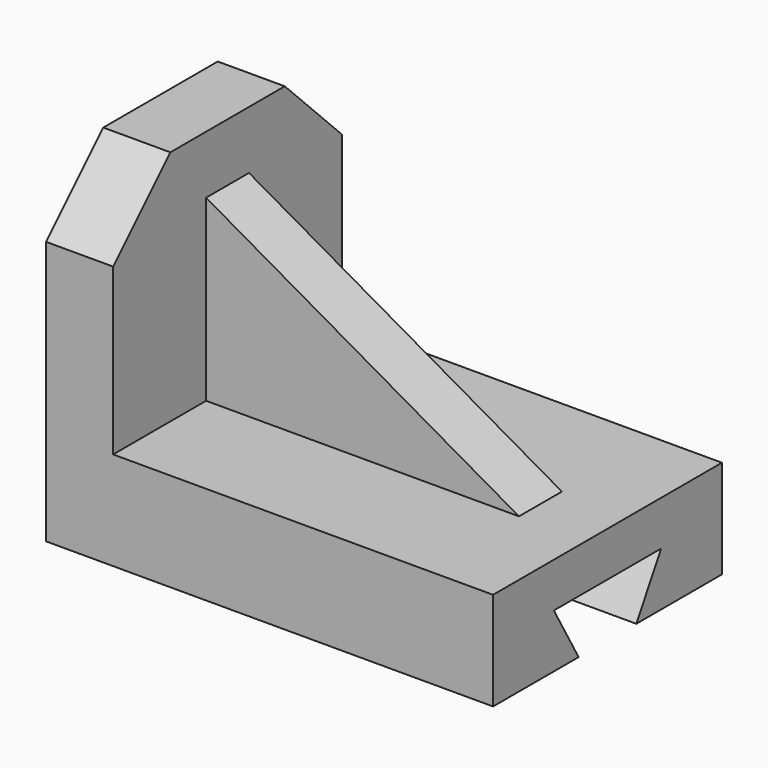
from build123d import *

# Parameters (mm, degrees)
PAD002_DEPTH    = 6
SKETCH_W        = 100
SKETCH_H        = 64
PAD_DEPTH       = 22
SKETCH001_W     = 15
SKETCH001_H     = 64
PAD001_DEPTH    = 53
POCKET_DEPTH    = 100.001
POCKET001_DEPTH = 15.001


with BuildPart() as pad002:
    # Sketch003 → Pad002 (new body, symmetric)
    with BuildSketch(Plane.XZ):
        Polygon((-35, 62), (-35, 22), (35, 22), align=None)
    extrude(amount=PAD002_DEPTH, both=True)


with BuildPart() as pocket001:
    # Sketch → Pad (new body)
    with BuildSketch(Plane.XY):
        Rectangle(SKETCH_W, SKETCH_H)
    extrude(amount=PAD_DEPTH)

    # Sketch001 → Pad001 (new body)
    with BuildSketch(Plane.XY.offset(22)):
        with Locations((-42.5, 0)):
            Rectangle(SKETCH001_W, SKETCH001_H)
    extrude(amount=PAD001_DEPTH)

    # Sketch002 → Pocket (cut, through all)
    with BuildSketch(Plane.YZ.offset(50)):
        Polygon((-8.071797, 0), (8.071797, 0), (15, 12), (-15, 12), align=None)
    extrude(amount=-POCKET_DEPTH, mode=Mode.SUBTRACT)

    # Sketch004 → Pocket001 (cut, through all)
    with BuildSketch(Plane.YZ.offset(-35)):
        Polygon((-32, 59), (-32, 75), (-16, 75), align=None)
        Polygon((16, 75), (32, 75), (32, 59), align=None)
    extrude(amount=-POCKET001_DEPTH, mode=Mode.SUBTRACT)


solid = Compound([pad002.part, pocket001.part])
